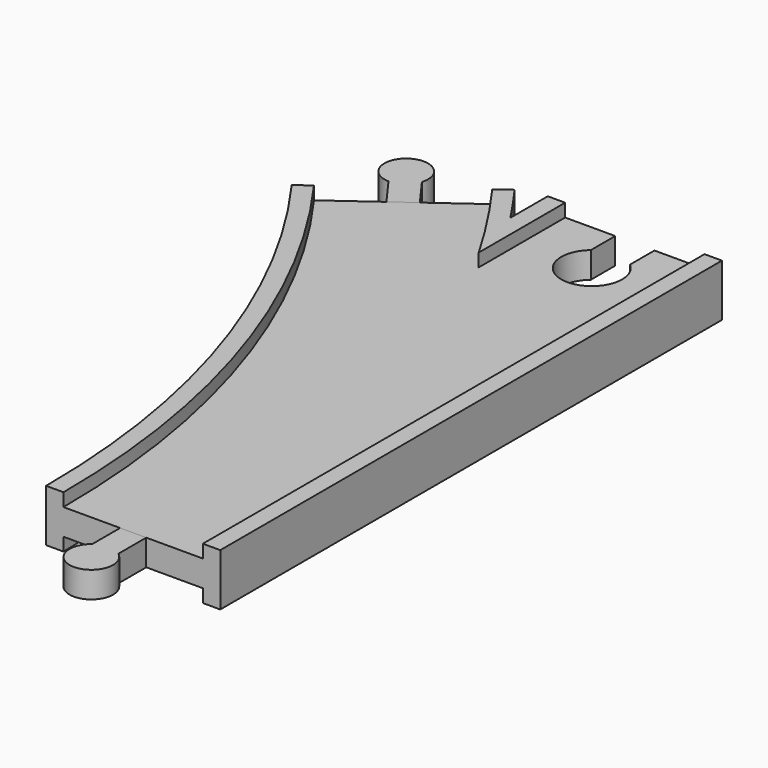
from build123d import *

# Parameters (mm, degrees)
SKETCH013_W       = 32
SKETCH013_H       = 3
POCKET_DEPTH      = 6.001
POCKET_DEPTH_BACK = -6.001
PAD_DEPTH         = 3
PAD002_DEPTH      = 3


with BuildPart() as body:
    # AdditivePipe: sweep along a path in Sketch002
    with BuildLine(Plane.XY) as additivepipe_path:
        ThreePointArc((0, 0), (-10.865453, 68.601773), (-42.398227, 130.488326))
    # Sketch → AdditivePipe (sweep)
    with BuildSketch(Plane.XZ):
        Polygon((-20, 6), (-20, -6), (-16, -6), (-16, -3), (-9, -3), (9, -3), (16, -3), (16, -6), (20, -6), (20, 6), (16, 6), (16, 3), (9, 3), (-9, 3), (-16, 3), (-16, 6), align=None)
    sweep(path=additivepipe_path.line)

    # AdditivePipe001: sweep along a path in Sketch001
    with BuildLine(Plane.XY) as additivepipe001_path:
        Line((0, 0), (0, 144))
    # Sketch → AdditivePipe001 (sweep)
    with BuildSketch(Plane.XZ):
        Polygon((-20, 6), (-20, -6), (-16, -6), (-16, -3), (-9, -3), (9, -3), (16, -3), (16, -6), (20, -6), (20, 6), (16, 6), (16, 3), (9, 3), (-9, 3), (-16, 3), (-16, 6), align=None)
    sweep(path=additivepipe001_path.line)

    # SubtractivePipe: sweep along a path in Sketch002
    with BuildLine(Plane.XY) as subtractivepipe_path:
        ThreePointArc((0, 0), (-10.865453, 68.601773), (-42.398227, 130.488326))
    # Sketch013 (on Face1 of AdditivePipe001) → SubtractivePipe (sweep, cut)
    with BuildSketch(Plane.XZ):
        with Locations((0, 4.5)):
            Rectangle(SKETCH013_W, SKETCH013_H)
    subtractivepipe = sweep(path=subtractivepipe_path.line, mode=Mode.SUBTRACT)

    # SubtractivePipe001: sweep along a path in Sketch001
    with BuildLine(Plane.XY) as subtractivepipe001_path:
        Line((0, 0), (0, 144))
    # Sketch013 (on Face1 of AdditivePipe001) → SubtractivePipe001 (sweep, cut)
    with BuildSketch(Plane.XZ):
        with Locations((0, 4.5)):
            Rectangle(SKETCH013_W, SKETCH013_H)
    subtractivepipe001 = sweep(path=subtractivepipe001_path.line, mode=Mode.SUBTRACT)

    # Mirrored: SubtractivePipe across XY
    add(subtractivepipe.mirror(Plane.XY), mode=Mode.SUBTRACT)

    # Mirrored001: SubtractivePipe001 across XY
    add(subtractivepipe001.mirror(Plane.XY), mode=Mode.SUBTRACT)

    # Sketch016 → Pocket (cut, two sides)
    with BuildSketch(Plane.XY) as pocket_sk:
        with BuildLine():
            Line((-4.5, 144), (4.5, 144))
            Line((4.5, 144), (4.5, 137))
            ThreePointArc((-4.5, 137), (0, 124.638097), (4.5, 137))
            Line((-4.5, 144), (-4.5, 137))
        make_face()
    extrude(amount=-POCKET_DEPTH, mode=Mode.SUBTRACT)
    extrude(pocket_sk.sketch, amount=-POCKET_DEPTH_BACK, mode=Mode.SUBTRACT)


with BuildPart() as body001:
    # Sketch008 → Pad (new body, symmetric)
    with BuildSketch(Plane.XY):
        with BuildLine():
            Line((-3, 0), (3, 0))
            Line((3, 0), (3, -8))
            ThreePointArc((-3, -8), (0, -17), (3, -8))
            Line((-3, 0), (-3, -8))
        make_face()
    extrude(amount=PAD_DEPTH, both=True)


with BuildPart() as body003:
    # Sketch012 → Pad002 (new body, symmetric)
    with BuildSketch(Plane.XY):
        with BuildLine():
            Line((-44.825278, 128.72497), (-39.971176, 132.251682))
            Line((-39.971176, 132.251682), (-44.673458, 138.723818))
            ThreePointArc((-44.673458, 138.723818), (-52.390577, 144.241615), (-49.52756, 135.197106))
            Line((-44.825278, 128.72497), (-49.52756, 135.197106))
        make_face()
    extrude(amount=PAD002_DEPTH, both=True)


solid = Compound([body.part, body001.part, body003.part])
